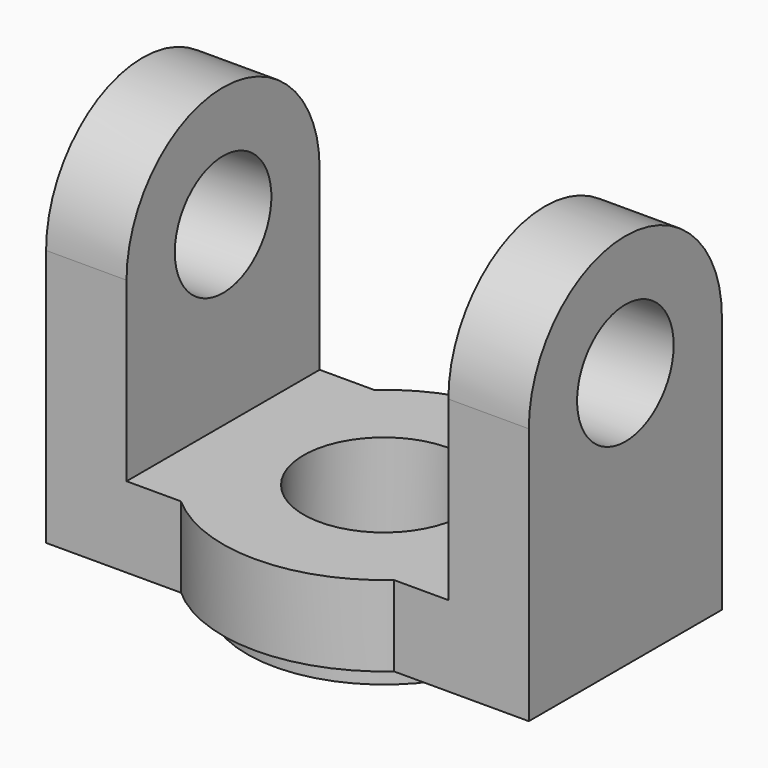
from build123d import *

# Parameters (mm, degrees)
F0_R     = 10
F1_DEPTH = 10
F2_R     = 17
F2_R_2   = 10
F3_DEPTH = 3
F4_R     = 7.5
F5_DEPTH = 10
F6_R     = 7.5
F7_DEPTH = 10


with BuildPart() as f1:
    # F0 (on Top) → F1 (new body)
    with BuildSketch(Plane.XY):
        with BuildLine():
            Line((0, -30), (0, 0))
            Line((0, 0), (-16.771243, 0))
            ThreePointArc((-16.771243, 0), (-30, 5), (-43.228757, 0))
            Line((-43.228757, 0), (-60, 0))
            Line((-60, 0), (-60, -30))
            Line((-60, -30), (-43.228757, -30))
            ThreePointArc((-43.228757, -30), (-30, -35), (-16.771243, -30))
            Line((-16.771243, -30), (0, -30))
        make_face()
        with Locations((-30, -15)):
            Circle(F0_R, mode=Mode.SUBTRACT)
    extrude(amount=F1_DEPTH)

    # F2 (on face) → F3 (join)
    with BuildSketch(Plane(origin=(0, 0, 0), x_dir=(1, 0, 0), z_dir=(0, 0, -1))):
        with Locations((-30, 15)):
            Circle(F2_R)
        with Locations((-30, 15)):
            Circle(F2_R_2, mode=Mode.SUBTRACT)
    extrude(amount=F3_DEPTH)

    # F4 (on face) → F5 (join)
    with BuildSketch(Plane.YZ):
        with BuildLine():
            ThreePointArc((0, 32), (-15, 47), (-30, 32))
            Line((-30, 32), (-30, 10))
            Line((-30, 10), (0, 10))
            Line((0, 10), (0, 32))
        make_face()
        with Locations((-15, 32)):
            Circle(F4_R, mode=Mode.SUBTRACT)
    extrude(amount=-F5_DEPTH)

    # F6 (on face) → F7 (join)
    with BuildSketch(Plane(origin=(-60, 0, 0), x_dir=(0, -1, 0), z_dir=(-1, 0, 0))):
        with BuildLine():
            ThreePointArc((30, 32), (15, 47), (0, 32))
            Line((0, 32), (0, 10))
            Line((0, 10), (30, 10))
            Line((30, 10), (30, 32))
        make_face()
        with Locations((15, 32)):
            Circle(F6_R, mode=Mode.SUBTRACT)
    extrude(amount=-F7_DEPTH)


solid = f1.part
